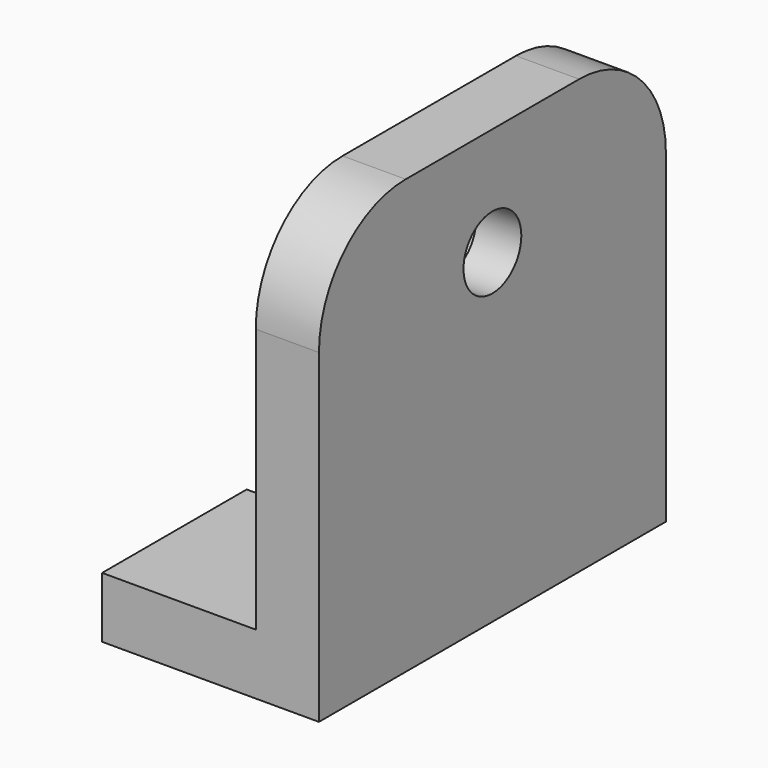
from build123d import *

# Parameters (mm, degrees)
F1_DEPTH = 76.2
F2_DEPTH = 76.2
F3_R     = 12.7
F4_DEPTH = 76.201
F6_DEPTH = 25.4
F7_R     = 38.1
F8_R     = 19.05
F9_DEPTH = 6.35


with BuildPart() as f1:
    # F0 (on Front) → F1 (new body)
    with BuildSketch(Plane.XZ):
        Polygon((-76.2, 0), (0, 0), (0, 152.4), (-22.206856, 152.4), (-22.206856, 21.336), (-76.2, 21.336), align=None)
    extrude(amount=-F1_DEPTH)

    # F1_face (on face) → F2 (join)
    with BuildSketch(Plane(origin=(-20.778911, 0, 59.558169), x_dir=(1, 0, 0), z_dir=(0, -1, 0))):
        Polygon((-1.427945, -38.222169), (-55.421089, -38.222169), (-55.421089, -59.558169), (20.778911, -59.558169), (20.778911, 92.841831), (-1.427945, 92.841831), align=None)
    extrude(amount=F2_DEPTH)

    # F3 (on face) → F4 (cut, through all)
    with BuildSketch(Plane.YZ):
        with Locations((0, 114.3)):
            Circle(F3_R)
    extrude(amount=-F4_DEPTH, mode=Mode.SUBTRACT)

    # F5 (on face) → F6 (cut)
    with BuildSketch(Plane.XY.offset(21.336)):
        with BuildLine():
            Line((-63.5, 12.7), (-76.2, 12.7))
            Line((-76.2, 12.7), (-76.2, -12.7))
            Line((-76.2, -12.7), (-63.5, -12.7))
            ThreePointArc((-63.5, -12.7), (-50.8, 0), (-63.5, 12.7))
        make_face()
    extrude(amount=-F6_DEPTH, mode=Mode.SUBTRACT)

    # F7
    f7_edges = [f1.edges().sort_by_distance(p)[0] for p in [
        (-11.103428, -76.2, 152.4),
        (-11.103428, 76.2, 152.4),
    ]]
    fillet(f7_edges, radius=F7_R)

    # F8 (on face) → F9 (cut)
    with BuildSketch(Plane(origin=(-22.206856, 0, 0), x_dir=(0, -1, 0), z_dir=(-1, 0, 0))):
        with Locations((0, 114.3)):
            Circle(F8_R)
    extrude(amount=-F9_DEPTH, mode=Mode.SUBTRACT)


solid = f1.part
